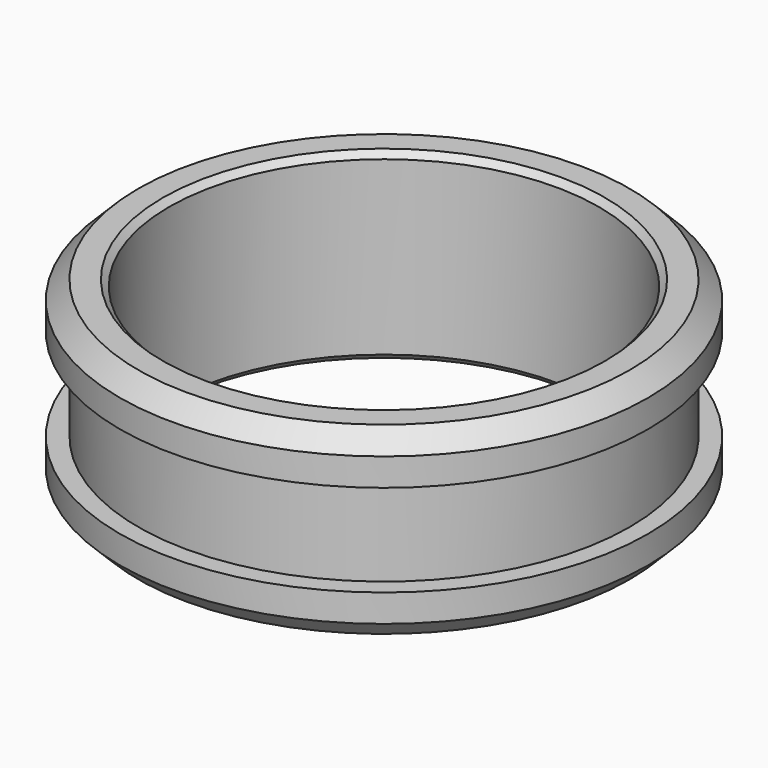
from build123d import *

# Parameters (mm, degrees)
F0_W    = 2.54
F0_H    = 9.525
F2_SIZE = 0.3175
F3_SIZE = 0.9525
F4_W    = 2.263989
F4_H    = 4.7625


with BuildPart() as f1:
    # F0 (on Front) → F1 (revolve)
    with BuildSketch(Plane.XZ):
        with Locations((-12.3825, 0)):
            Rectangle(F0_W, F0_H)
    revolve(axis=Axis((0, 0, 0), (0, 0, -1)))

    # F2
    f2_edges = [f1.edges().sort_by_distance(p)[0] for p in [
        (11.1125, 0, 4.7625),
        (11.1125, 0, -4.7625),
    ]]
    chamfer(f2_edges, length=F2_SIZE)

    # F3
    f3_edges = [f1.edges().sort_by_distance(p)[0] for p in [
        (13.6525, 0, -4.7625),
        (13.6525, 0, 4.7625),
    ]]
    chamfer(f3_edges, length=F3_SIZE)

    # F4 (on Right) → F5 (revolve, cut)
    with BuildSketch(Plane.YZ):
        with Locations((13.831995, 0)):
            Rectangle(F4_W, F4_H)
    revolve(axis=Axis((0, 0, -0.389769), (0, 0, -1)), mode=Mode.SUBTRACT)


solid = f1.part
